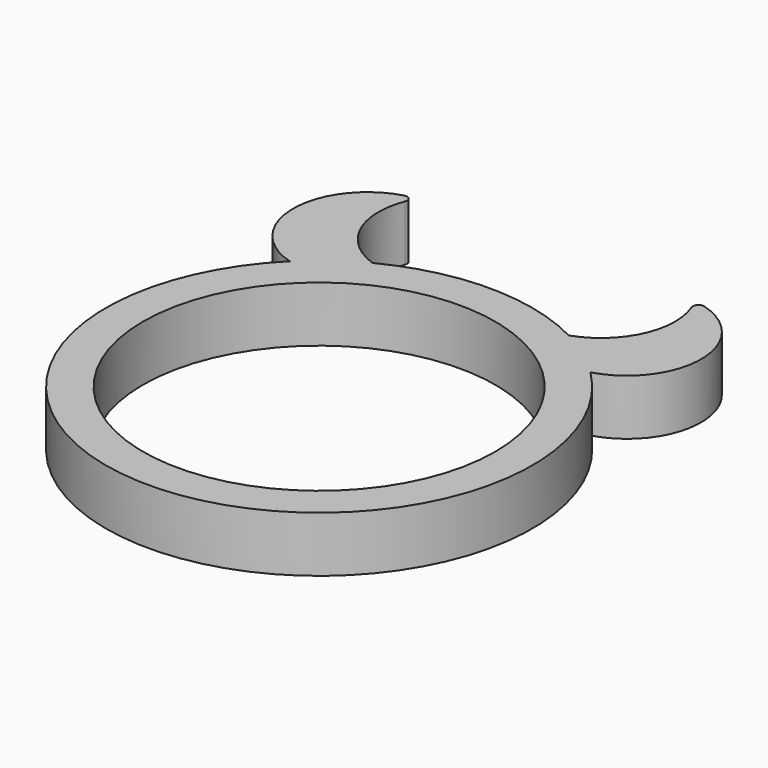
from build123d import *

# Parameters (mm, degrees)
CYLINDER003_R     = 4
CYLINDER003_DEPTH = 3
CYLINDER002_R     = 4
CYLINDER002_DEPTH = 3
CYLINDER001_R     = 9.5
CYLINDER001_DEPTH = 10
CYLINDER_R        = 11.5
CYLINDER_DEPTH    = 3
FILLET_R          = 0.3


with BuildPart() as cilindro003:
    # Cylinder003 → Cylinder003 (new body)
    with BuildSketch(Plane(origin=(3, 2, 0), x_dir=(1, 0, 0), z_dir=(0, 0, 1))):
        Circle(CYLINDER003_R)
    extrude(amount=CYLINDER003_DEPTH)


with BuildPart() as cilindro002:
    # Cylinder002 → Cylinder002 (new body)
    with BuildSketch(Plane.XY):
        Circle(CYLINDER002_R)
    extrude(amount=CYLINDER002_DEPTH)


with BuildPart() as cut001:
    # Cut001 base: copy of Cilindro002
    add(cilindro002.part)

    # Cut001: cut Cilindro003
    add(cilindro003.part, mode=Mode.SUBTRACT)


with BuildPart() as cut001_1:
    # Cut001 placement: moved
    add(cut001.part.moved(Location((-7, 11, 0))))


with BuildPart() as obj1:
    # Part__Mirroring: instance of Cut001
    add(cut001_1.part.mirror(Plane(origin=(0, 0, 0), x_dir=(0, -1, 0), z_dir=(1, 0, 0))))


with BuildPart() as obj1_1:
    # Part__Mirroring placement: moved
    add(obj1.part.moved(Location((0, 1, 0))))


with BuildPart() as cilindro_interior:
    # Cylinder001 → Cylinder001 (new body)
    with BuildSketch(Plane.XY.offset(-3)):
        Circle(CYLINDER001_R)
    extrude(amount=CYLINDER001_DEPTH)


with BuildPart() as obj2:
    # Cylinder → Cylinder (new body)
    with BuildSketch(Plane.XY):
        Circle(CYLINDER_R)
    extrude(amount=CYLINDER_DEPTH)

    # Cut: cut cilindro-interior
    add(cilindro_interior.part, mode=Mode.SUBTRACT)


with BuildPart() as obj3:
    # Cut002 base: copy of Cilindro002
    add(cilindro002.part)

    # Cut002: cut Cilindro003
    add(cilindro003.part, mode=Mode.SUBTRACT)


with BuildPart() as obj3_1:
    # Cut002 placement: moved
    add(obj3.part.moved(Location((-7, 12, 0))))

    # Fusion: union obj1, obj2
    add(obj1_1.part)
    add(obj2.part)

    # Fillet
    fillet_edges = [obj3_1.edges().sort_by_distance(p)[0] for p in [
        (-7.480676, 15.971014, 1.5),
        (7.480676, 15.971014, 1.5),
    ]]
    fillet(fillet_edges, radius=FILLET_R)


solid = obj3_1.part
